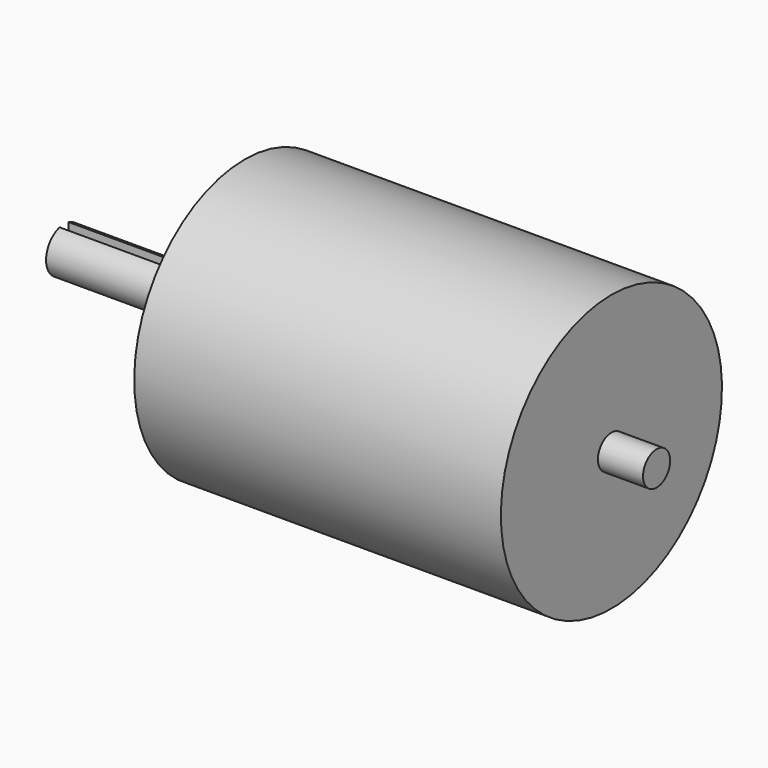
from build123d import *

# Parameters (mm, degrees)
F2_W     = 3.175
F2_H     = 8.4529162467
F3_DEPTH = 46.228
F5_D     = 3.4544
F5_DEPTH = 15.08125
F5_TIP   = 1.0378064612


with BuildPart() as f1:
    # F0 (on Front) → F1 (revolve)
    with BuildSketch(Plane.XZ):
        Polygon((0, 6.35), (0, 0), (166.624, 0), (166.624, 4.7625), (153.924, 4.7625), (153.924, 38.862), (50.8, 38.862), (50.8, 17.4498), (46.228, 17.4498), (46.228, 6.35), align=None)
    revolve(axis=Axis((76.633890767, 0, 0), (1, 0, 0)))

    # F2 (on face) → F3 (cut, through all)
    with BuildSketch(Plane(origin=(0, 0, 0), x_dir=(0, -1, 0), z_dir=(-1, 0, 0))):
        with Locations((0, 7.4014581233)):
            Rectangle(F2_W, F2_H)
    extrude(amount=-F3_DEPTH, mode=Mode.SUBTRACT)

    # F5
    with Locations(Plane(origin=(50.8, 0, 0), x_dir=(0, -1, 0), z_dir=(-1, 0, 0))):
        with Locations((-25, 0), (0, -25), (25, 0), (0, 25)):
            Hole(F5_D / 2, depth=F5_DEPTH)
            with Locations((0, 0, -(F5_DEPTH + F5_TIP / 2))):  # 118° drill point
                Cone(0, F5_D / 2, F5_TIP, mode=Mode.SUBTRACT)


solid = f1.part
